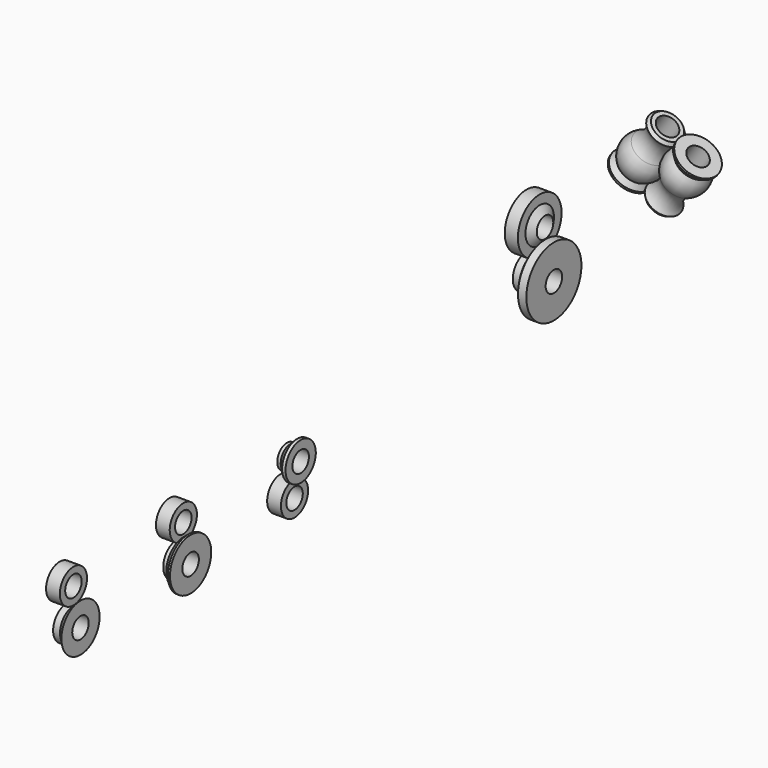
from build123d import *

# Parameters (mm, degrees)
F9_W  = 20
F9_H  = 9.7
F10_W = 20
F10_H = 9.7
F11_W = 20
F11_H = 9.7


with BuildPart() as f17:
    # F9 (on offset) → F17 (revolve)
    with BuildSketch(Plane.XZ.offset(-200)):
        with Locations((195.875736, 5.15)):
            Rectangle(F9_W, F9_H)
    revolve(axis=Axis((202.633768, 200, 25), (1, 0, 0)))


with BuildPart() as f18:
    # F9 (on offset) → F18 (revolve)
    with BuildSketch(Plane.XZ.offset(-200)):
        Polygon((210.454773, 4.030509), (206.124264, -0.3), (196.124264, -0.3), (196.124264, -10), (216.124264, -10), (216.124264, 9.7), align=None)
    revolve(axis=Axis((216.828793, 200, -25), (1, 0, 0)))


with BuildPart() as f19:
    # F10 (on offset) → F19 (revolve)
    with BuildSketch(Plane.XZ.offset(-400)):
        Polygon((206.124264, -0.3), (196.124264, -0.3), (196.124264, -10), (216.124264, -10), (216.124264, 12.5), (213.124264, 12.5), (206.124264, 6.7), align=None)
    revolve(axis=Axis((216.828793, 400, -25), (1, 0, 0)))


with BuildPart() as f20:
    # F10 (on offset) → F20 (revolve)
    with BuildSketch(Plane.XZ.offset(-400)):
        with Locations((195.524264, 5.15)):
            Rectangle(F10_W, F10_H)
    revolve(axis=Axis((202.633768, 400, 25), (1, 0, 0)))


with BuildPart() as f21:
    # F11 (on offset) → F21 (revolve)
    with BuildSketch(Plane.XZ.offset(-600)):
        Polygon((201.048376, 7.5), (211.048376, -2.5), (216.048376, -2.5), (216.048376, 10), (196.048376, 10), (196.048376, 7.5), align=None)
    revolve(axis=Axis((202.633768, 600, 25), (1, 0, 0)))


with BuildPart() as f22:
    # F11 (on offset) → F22 (revolve)
    with BuildSketch(Plane.XZ.offset(-600)):
        with Locations((197.123388, -5.15)):
            Rectangle(F11_W, F11_H)
    revolve(axis=Axis((216.828793, 600, -25), (1, 0, 0)))


with BuildPart() as f23:
    # F14 (on offset) → F23 (revolve)
    with BuildSketch(Plane.XZ.offset(-1200)):
        Polygon((64.367883, 25), (64.367883, 0.3), (83.4, 0.3), (83.4, 14.095166), (91.092514, 25), align=None)
    revolve(axis=Axis((88.076424, 1200, 40), (1, 0, 0)))


with BuildPart() as f24:
    # F14 (on offset) → F24 (revolve)
    with BuildSketch(Plane.XZ.offset(-1200)):
        Polygon((91.826778, 25), (84, 13.904834), (84, -0.3), (64, -0.3), (64, -10), (104, -10), (104, 25), align=None)
    revolve(axis=Axis((216.828793, 1200, -25), (1, 0, 0)))


with BuildPart() as f25:
    # F15 (on offset) → F25 (revolve)
    with BuildSketch(Plane.XZ.offset(-1400)):
        with BuildLine():
            ThreePointArc((104.905314, 44.479234), (110.328894, 63.575812), (126.409652, 75.216418))
            Line((126.409652, 75.216418), (126.409652, 81.334531))
            Line((126.409652, 81.334531), (121.424394, 84.849941))
            Line((121.424394, 84.849941), (69.194932, 10.782519))
            Line((69.194932, 10.782519), (81.716523, 1.95278))
            Line((81.716523, 1.95278), (83.4, 4.340145))
            Line((83.4, 4.340145), (83.4, 14.225506))
            ThreePointArc((83.4, 14.225506), (99.460961, 25.579058), (104.905314, 44.479234))
        make_face()
    revolve(axis=Axis((91.214182, 1400, 68.03694), (0.57629, 0, 0.817245)))


with BuildPart() as f26:
    # F15 (on offset) → F26 (revolve)
    with BuildSketch(Plane.XZ.offset(-1400)):
        with BuildLine():
            Line((127.009652, 84.652521), (127.009652, 74.76716))
            ThreePointArc((127.009652, 74.76716), (110.948691, 63.413607), (105.504338, 44.513432))
            ThreePointArc((105.504338, 44.513432), (100.080758, 25.416854), (84, 13.776247))
            Line((84, 13.776247), (84, 7.658134))
            Line((84, 7.658134), (88.985258, 4.142724))
            Line((88.985258, 4.142724), (141.21472, 78.210147))
            Line((141.21472, 78.210147), (128.693129, 87.039886))
            Line((128.693129, 87.039886), (127.009652, 84.652521))
        make_face()
    revolve(axis=Axis((132.076457, 1400, 39.222456), (0.57629, 0, 0.817245)))


solid = Compound([f17.part, f18.part, f19.part, f20.part, f21.part, f22.part, f23.part, f24.part, f25.part, f26.part])
